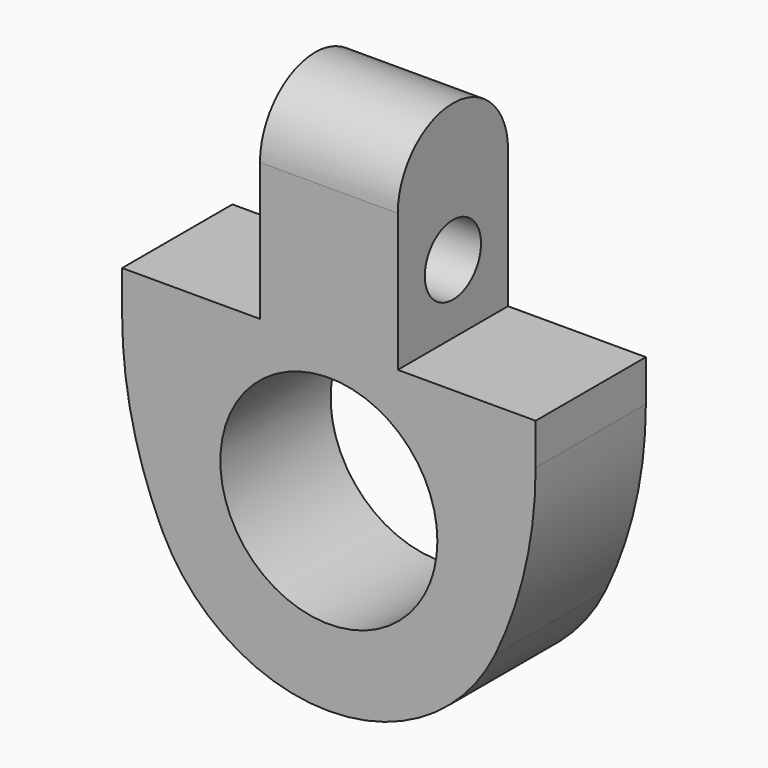
from build123d import *

# Parameters (mm, degrees)
F0_R     = 20
F1_DEPTH = 12.7
F2_R     = 6.477
F3_DEPTH = 50.801
F4_DEPTH = 25.4


with BuildPart() as f1:
    # F0 (on Front) → F1 (new body, symmetric)
    with BuildSketch(Plane.XZ):
        with BuildLine():
            ThreePointArc((-38.1, 17.78), (-36.210287, 0.987833), (-30.635678, -14.964333))
            ThreePointArc((-30.635678, -14.964333), (0, -34.095103), (30.635678, -14.964333))
            ThreePointArc((30.635678, -14.964333), (36.210287, 0.987833), (38.1, 17.78))
            Line((38.1, 17.78), (38.1, 25.4))
            Line((38.1, 25.4), (12.7, 25.4))
            Line((12.7, 25.4), (12.7, 50.8))
            Line((12.7, 50.8), (-12.7, 50.8))
            Line((-12.7, 50.8), (-12.7, 25.4))
            Line((-12.7, 25.4), (-38.1, 25.4))
            Line((-38.1, 25.4), (-38.1, 17.78))
        make_face()
        Circle(F0_R, mode=Mode.SUBTRACT)
    extrude(amount=F1_DEPTH, both=True)

    # F2 (on face) → F3 (cut, through all)
    with BuildSketch(Plane(origin=(-12.7, 0, 0), x_dir=(0, -1, 0), z_dir=(-1, 0, 0))):
        with Locations((0, 38.1)):
            Circle(F2_R)
    extrude(amount=-F3_DEPTH, mode=Mode.SUBTRACT)

    # F2 (on face) → F4 (join)
    with BuildSketch(Plane(origin=(-12.7, 0, 0), x_dir=(0, -1, 0), z_dir=(-1, 0, 0))):
        with BuildLine():
            Line((-12.7, 50.8), (12.7, 50.8))
            ThreePointArc((12.7, 50.8), (0, 63.5), (-12.7, 50.8))
        make_face()
    extrude(amount=-F4_DEPTH)


solid = f1.part
